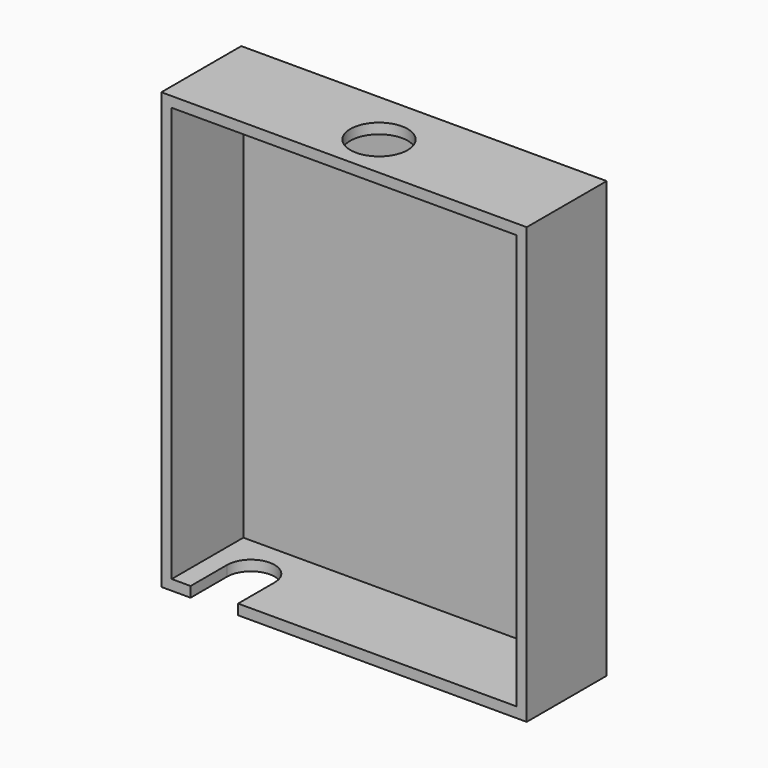
from build123d import *

# Parameters (mm, degrees)
F0_W     = 31.7627
F0_H     = 76.454
F1_DEPTH = 16.51
F2_T     = 1.905
F3_R     = 5.2760492521
F4_DEPTH = 25.4
F5_R     = 4.3777369445
F6_DEPTH = 25.4
F9_DEPTH = 25.4


with BuildPart() as f1:
    # F0 (on Front) → F1 (new body)
    with BuildSketch(Plane.XZ):
        with Locations((15.88135, 8.247606141)):
            Rectangle(F0_W, F0_H)
        with Locations((-15.88135, 8.247606141)):
            Rectangle(F0_W, F0_H)
    extrude(amount=F1_DEPTH)

    # F2
    f2_openings = [f1.faces().sort_by_distance(p)[0] for p in [
        (0, -16.51, 8.247606),
    ]]
    offset(amount=F2_T, openings=f2_openings, kind=Kind.INTERSECTION)

    # F3 (on face) → F4 (cut)
    with BuildSketch(Plane.XY.offset(48.379606141)):
        with Locations((0, -8.4488391876)):
            Circle(F3_R)
    extrude(amount=-F4_DEPTH, mode=Mode.SUBTRACT)

    # F5 (on face) → F6 (cut)
    with BuildSketch(Plane(origin=(0, 0, -31.884393859), x_dir=(1, 0, 0), z_dir=(0, 0, -1))):
        with Locations((-23.9024627954, 8.0834906548)):
            Circle(F5_R)
    extrude(amount=-F6_DEPTH, mode=Mode.SUBTRACT)


with BuildPart() as f1_1:
    # F7: moved
    add(f1.part.moved(Location((0, 0, 31.115))))

    # F8 (on face) → F9 (cut)
    with BuildSketch(Plane(origin=(0, 0, -0.769393859), x_dir=(1, 0, 0), z_dir=(0, 0, -1))):
        Polygon((-28.2801996592, 8.0843311799), (-19.5247259315, 8.0843311799), (-19.5247259315, 16.51), (-28.2785819315, 16.51), align=None)
    extrude(amount=-F9_DEPTH, mode=Mode.SUBTRACT)


solid = f1_1.part
